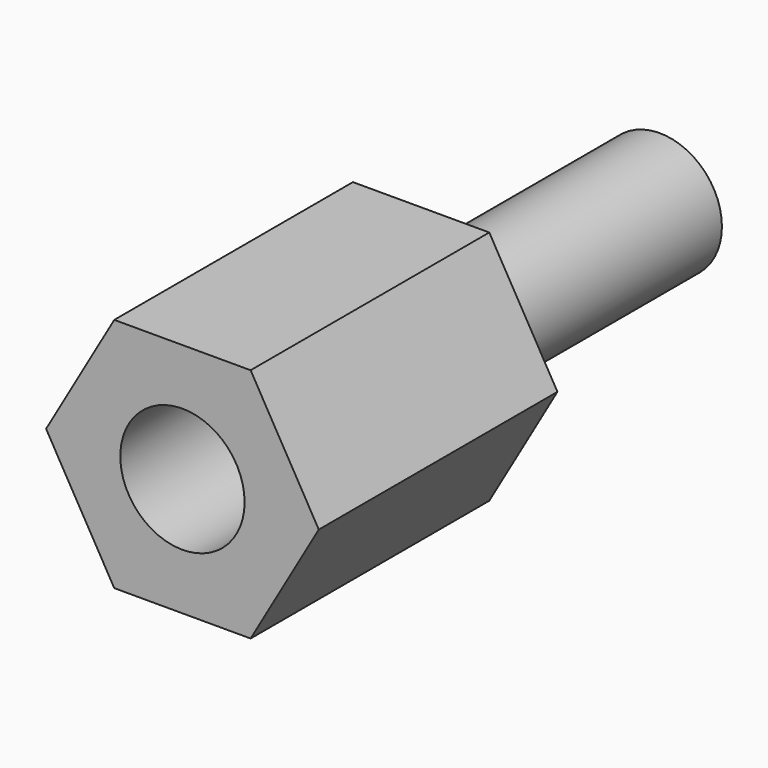
from build123d import *

# Parameters (mm, degrees)
PAD002_DEPTH            = 6
SKETCH008_R             = 1.25
PAD003_DEPTH            = 6
SKETCH009_R             = 1.25
POCKET004_DEPTH         = 5
BODY003_PLACEMENT_ANGLE = 90


with BuildPart() as part:
    # Sketch007 → Pad002 (new body)
    with BuildSketch(Plane.XY):
        Polygon((1.371207, 2.375), (-1.371207, 2.375), (-2.742414, 0), (-1.371207, -2.375), (1.371207, -2.375), (2.742414, 0), align=None)
    extrude(amount=PAD002_DEPTH)

    # Sketch008 (on Face7 of Pad002) → Pad003 (join)
    with BuildSketch(Plane(origin=(0, 0, 0), x_dir=(1, 0, 0), z_dir=(0, 0, -1))):
        Circle(SKETCH008_R)
    extrude(amount=PAD003_DEPTH)

    # Sketch009 (on Face5 of Pad003) → Pocket004 (cut)
    with BuildSketch(Plane.XY.offset(6)):
        Circle(SKETCH009_R)
    extrude(amount=-POCKET004_DEPTH, mode=Mode.SUBTRACT)


with BuildPart() as part_1:
    # Body003 placement: moved
    add(part.part.moved(Location((61, -16.5, -13.5))).rotate(Axis((61, -16.5, -13.5), (1, 0, 0)), BODY003_PLACEMENT_ANGLE))


with BuildPart() as part_2:
    # Body006 placement: moved
    add(part_1.part.moved(Location((58, 0, -49))))


solid = part_2.part
